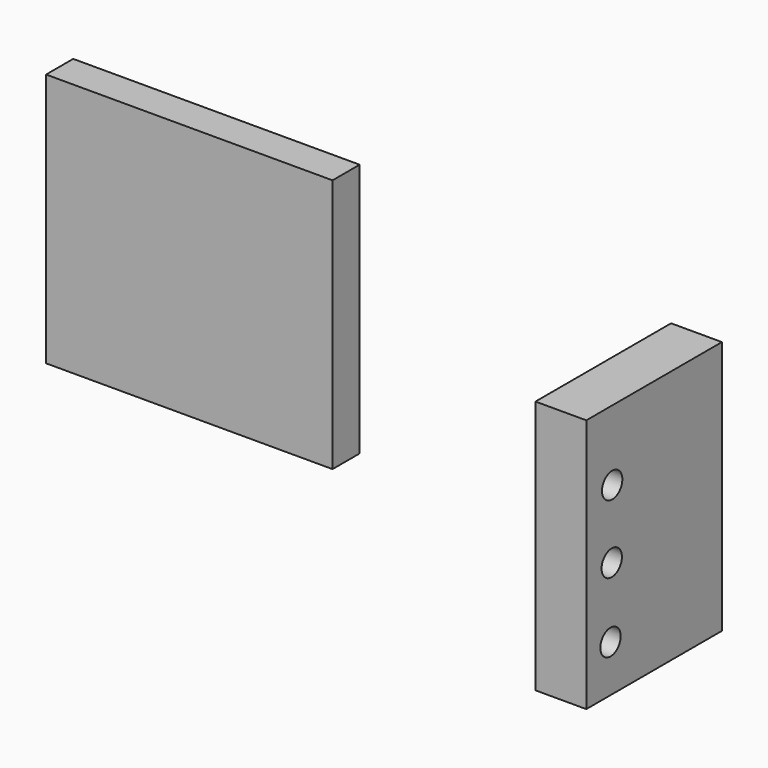
from build123d import *

# Parameters (mm, degrees)
F0_W     = 42.926
F0_H     = 38.1
F1_DEPTH = 5.08
F2_W     = 7.62
F2_H     = 38.1
F3_DEPTH = 25.4
F4_R     = 1.905
F5_DEPTH = 25.4


with BuildPart() as f1:
    # F0 (on Front) → F1 (new body)
    with BuildSketch(Plane.XZ):
        with Locations((-37.61664, 62.604237)):
            Rectangle(F0_W, F0_H)
    extrude(amount=F1_DEPTH)


with BuildPart() as f3:
    # F2 (on Front) → F3 (new body)
    with BuildSketch(Plane.XZ):
        with Locations((34.324463, 56.858795)):
            Rectangle(F2_W, F2_H)
    extrude(amount=F3_DEPTH)

    # F4 (on face) → F5 (cut)
    with BuildSketch(Plane(origin=(30.514463, 0, 0), x_dir=(0, -1, 0), z_dir=(-1, 0, 0))):
        with Locations((20.558622, 65.398186)):
            Circle(F4_R)
        with Locations((20.635817, 55.186477)):
            Circle(F4_R)
        with Locations((20.869667, 44.821851)):
            Circle(F4_R)
    extrude(amount=-F5_DEPTH, mode=Mode.SUBTRACT)


solid = Compound([f1.part, f3.part])
